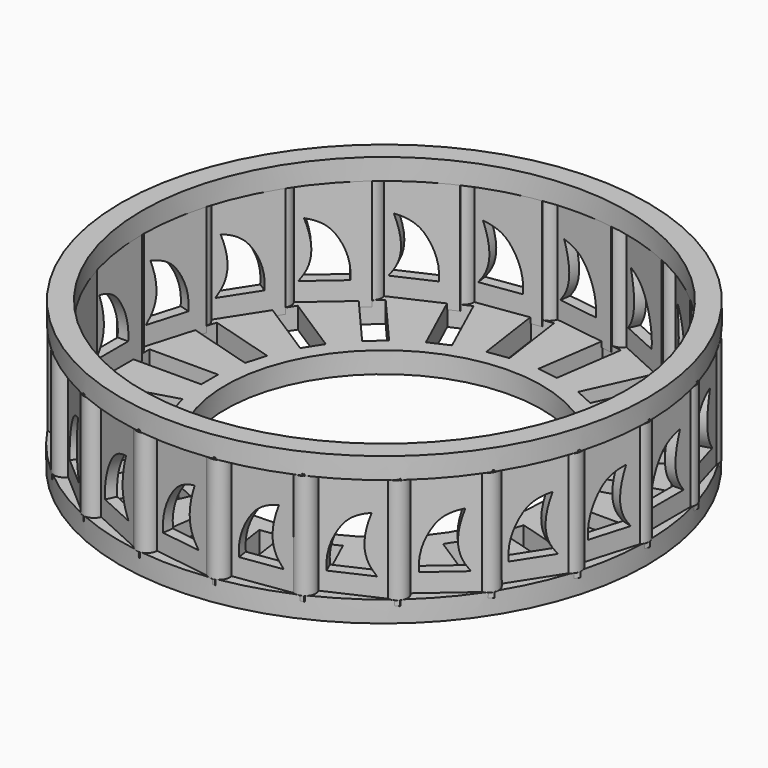
from build123d import *

# Parameters (mm, degrees)
F0_R      = 63.5
F0_W      = 16.51
F0_H      = 5.08
F0_R_2    = 38.1
F1_DEPTH  = 5.08
F2_R      = 2.54
F3_DEPTH  = 25.4
F4_R      = 63.5
F4_R_2    = 58.42
F5_DEPTH  = 5.08
F7_W      = 18.3629672974
F7_H      = 27.073842939
F8_DEPTH  = 2.54
F10_COUNT = 22


with BuildPart() as f1:
    # F0 (on Top) → F1 (new body)
    with BuildSketch(Plane.XY):
        with Locations((-0.1923876274, 0)):
            Circle(F0_R)
        Polygon((-40.3025550988, -42.632940737), (-29.4908043814, -30.1555152645), (-25.6515965436, -33.4822077929), (-36.4633472611, -45.9596332655), align=None, mode=Mode.SUBTRACT)
        Polygon((-10.8555589284, -57.6543183442), (-8.5059409485, -41.3123663387), (-3.4776480237, -42.0353257172), (-5.8272660036, -58.3772777226), align=None, mode=Mode.SUBTRACT)
        Polygon((-26.6589310365, -52.2605489769), (-19.8004291718, -37.2425247336), (-15.1794986354, -39.3528329997), (-22.0380005001, -54.370857243), align=None, mode=Mode.SUBTRACT)
        Polygon((-50.6811058355, -29.5514651865), (-36.7920100085, -20.6254852903), (-34.0455546558, -24.8990532371), (-47.9346504829, -33.8250331333), align=None, mode=Mode.SUBTRACT)
        Polygon((-56.9537747896, -14.0759056759), (-41.1125457952, -9.4245011624), (-39.6813444065, -14.2987254684), (-55.5225734008, -18.9501299818), align=None, mode=Mode.SUBTRACT)
        Polygon((5.8272660036, -58.3772777226), (3.4776480237, -42.0353257172), (8.5059409485, -41.3123663387), (10.8555589284, -57.6543183442), align=None, mode=Mode.SUBTRACT)
        Polygon((22.0380005001, -54.370857243), (15.1794986354, -39.3528329997), (19.8004291718, -37.2425247336), (26.6589310365, -52.2605489769), align=None, mode=Mode.SUBTRACT)
        Polygon((36.4633472611, -45.9596332655), (25.6515965436, -33.4822077929), (29.4908043814, -30.1555152645), (40.3025550988, -42.632940737), align=None, mode=Mode.SUBTRACT)
        Polygon((47.9346504829, -33.8250331333), (34.0455546558, -24.8990532371), (36.7920100085, -20.6254852903), (50.6811058355, -29.5514651865), align=None, mode=Mode.SUBTRACT)
        Polygon((55.5225734008, -18.9501299818), (39.6813444065, -14.2987254684), (41.1125457952, -9.4245011624), (56.9537747896, -14.0759056759), align=None, mode=Mode.SUBTRACT)
        with Locations((-50.3573876274, 0)):
            Rectangle(F0_W, F0_H, mode=Mode.SUBTRACT)
        Polygon((-55.5225734008, 18.9501299818), (-39.6813444065, 14.2987254684), (-41.1125457952, 9.4245011624), (-56.9537747896, 14.0759056759), align=None, mode=Mode.SUBTRACT)
        Polygon((-47.9346504829, 33.8250331333), (-34.0455546558, 24.8990532371), (-36.7920100085, 20.6254852903), (-50.6811058355, 29.5514651865), align=None, mode=Mode.SUBTRACT)
        Polygon((-36.4633472611, 45.9596332655), (-25.6515965436, 33.4822077929), (-29.4908043814, 30.1555152645), (-40.3025550988, 42.632940737), align=None, mode=Mode.SUBTRACT)
        Polygon((-22.0380005001, 54.370857243), (-15.1794986354, 39.3528329997), (-19.8004291718, 37.2425247336), (-26.6589310365, 52.2605489769), align=None, mode=Mode.SUBTRACT)
        Polygon((-5.8272660036, 58.3772777226), (-3.4776480237, 42.0353257172), (-8.5059409485, 41.3123663387), (-10.8555589284, 57.6543183442), align=None, mode=Mode.SUBTRACT)
        with Locations((-0.1923876274, 0)):
            Circle(F0_R_2, mode=Mode.SUBTRACT)
        with Locations((50.3573876274, 0)):
            Rectangle(F0_W, F0_H, mode=Mode.SUBTRACT)
        Polygon((56.9537747896, 14.0759056759), (41.1125457952, 9.4245011624), (39.6813444065, 14.2987254684), (55.5225734008, 18.9501299818), align=None, mode=Mode.SUBTRACT)
        Polygon((50.6811058355, 29.5514651865), (36.7920100085, 20.6254852903), (34.0455546558, 24.8990532371), (47.9346504829, 33.8250331333), align=None, mode=Mode.SUBTRACT)
        Polygon((26.6589310365, 52.2605489769), (19.8004291718, 37.2425247336), (15.1794986354, 39.3528329997), (22.0380005001, 54.370857243), align=None, mode=Mode.SUBTRACT)
        Polygon((10.8555589284, 57.6543183442), (8.5059409485, 41.3123663387), (3.4776480237, 42.0353257172), (5.8272660036, 58.3772777226), align=None, mode=Mode.SUBTRACT)
        Polygon((40.3025550988, 42.632940737), (29.4908043814, 30.1555152645), (25.6515965436, 33.4822077929), (36.4633472611, 45.9596332655), align=None, mode=Mode.SUBTRACT)
    extrude(amount=F1_DEPTH)

    # F2 (on face) → F3 (join)
    with BuildSketch(Plane.XY.offset(5.08)):
        with Locations((-61.2179338932, 0)):
            Circle(F2_R)
        with Locations((-58.7381774297, -17.2470850403)):
            Circle(F2_R)
        with Locations((-51.4998031603, -33.096913823)):
            Circle(F2_R)
        with Locations((-40.0892211199, -46.2654274826)):
            Circle(F2_R)
        with Locations((-25.4308488042, -55.6857913588)):
            Circle(F2_R)
        with Locations((-8.7122203614, -60.5948235951)):
            Circle(F2_R)
        with Locations((8.7122203614, -60.5948235951)):
            Circle(F2_R)
        with Locations((25.4308488042, -55.6857913588)):
            Circle(F2_R)
        with Locations((40.0892211199, -46.2654274826)):
            Circle(F2_R)
        with Locations((51.4998031603, -33.096913823)):
            Circle(F2_R)
        with Locations((58.7381774297, -17.2470850403)):
            Circle(F2_R)
        with Locations((61.2179338932, 0)):
            Circle(F2_R)
        with Locations((58.7381774297, 17.2470850403)):
            Circle(F2_R)
        with Locations((51.4998031603, 33.096913823)):
            Circle(F2_R)
        with Locations((40.0892211199, 46.2654274826)):
            Circle(F2_R)
        with Locations((25.4308488042, 55.6857913588)):
            Circle(F2_R)
        with Locations((8.7122203614, 60.5948235951)):
            Circle(F2_R)
        with Locations((-8.7122203614, 60.5948235951)):
            Circle(F2_R)
        with Locations((-25.4308488042, 55.6857913588)):
            Circle(F2_R)
        with Locations((-40.0892211199, 46.2654274826)):
            Circle(F2_R)
        with Locations((-51.4998031603, 33.096913823)):
            Circle(F2_R)
        with Locations((-58.7381774297, 17.2470850403)):
            Circle(F2_R)
    extrude(amount=F3_DEPTH)

    # F4 (on face) → F5 (join)
    with BuildSketch(Plane.XY.offset(30.48)):
        Circle(F4_R)
        Circle(F4_R_2, mode=Mode.SUBTRACT)
    extrude(amount=F5_DEPTH)


with BuildPart() as f8:
    # F7 (on offset) → F8 (new body)
    with BuildSketch(Plane.YZ.offset(60.96)):
        with Locations((9.1814836487, 17.3004337121)):
            Rectangle(F7_W, F7_H)
        with BuildLine():
            Line((13.8985989615, 9.5373890363), (4.1229403578, 9.5373890363))
            add(Edge.make_bspline(
                [(4.1229403578, 9.5373890363), (3.8238647014, 13.1758421241), (5.8538104402, 18.8352404359), (9.0935152673, 22.1515593226), (12.8517234698, 22.8784270585)],
                knots=[0, 0, 0, 0, 0.5164655318, 1, 1, 1, 1], degree=3))
            add(Edge.make_bspline(
                [(13.8985989615, 9.5373890363), (12.9132093862, 10.8256936073), (11.4145085167, 13.1844213852), (11.0661834478, 17.931336537), (12.8517234698, 22.8784270585)],
                knots=[0, 0, 0, 0, 0.388745875, 1, 1, 1, 1], degree=3))
        make_face(mode=Mode.SUBTRACT)
    extrude(amount=-F8_DEPTH)


with BuildPart() as f10_1:
    # F10: instance of F8
    add(f8.part.rotate(Axis((0, 0, 31.877823174), (0, 0, -1)), 1 * 360 / F10_COUNT))


with BuildPart() as f10_2:
    # F10: instance of F8
    add(f8.part.rotate(Axis((0, 0, 31.877823174), (0, 0, -1)), 2 * 360 / F10_COUNT))


with BuildPart() as f10_3:
    # F10: instance of F8
    add(f8.part.rotate(Axis((0, 0, 31.877823174), (0, 0, -1)), 3 * 360 / F10_COUNT))


with BuildPart() as f10_4:
    # F10: instance of F8
    add(f8.part.rotate(Axis((0, 0, 31.877823174), (0, 0, -1)), 4 * 360 / F10_COUNT))


with BuildPart() as f10_5:
    # F10: instance of F8
    add(f8.part.rotate(Axis((0, 0, 31.877823174), (0, 0, -1)), 5 * 360 / F10_COUNT))


with BuildPart() as f10_6:
    # F10: instance of F8
    add(f8.part.rotate(Axis((0, 0, 31.877823174), (0, 0, -1)), 6 * 360 / F10_COUNT))


with BuildPart() as f10_7:
    # F10: instance of F8
    add(f8.part.rotate(Axis((0, 0, 31.877823174), (0, 0, -1)), 7 * 360 / F10_COUNT))


with BuildPart() as f10_8:
    # F10: instance of F8
    add(f8.part.rotate(Axis((0, 0, 31.877823174), (0, 0, -1)), 8 * 360 / F10_COUNT))


with BuildPart() as f10_9:
    # F10: instance of F8
    add(f8.part.rotate(Axis((0, 0, 31.877823174), (0, 0, -1)), 9 * 360 / F10_COUNT))


with BuildPart() as f10_10:
    # F10: instance of F8
    add(f8.part.rotate(Axis((0, 0, 31.877823174), (0, 0, -1)), 10 * 360 / F10_COUNT))


with BuildPart() as f10_11:
    # F10: instance of F8
    add(f8.part.rotate(Axis((0, 0, 31.877823174), (0, 0, -1)), 11 * 360 / F10_COUNT))


with BuildPart() as f10_12:
    # F10: instance of F8
    add(f8.part.rotate(Axis((0, 0, 31.877823174), (0, 0, -1)), 12 * 360 / F10_COUNT))


with BuildPart() as f10_13:
    # F10: instance of F8
    add(f8.part.rotate(Axis((0, 0, 31.877823174), (0, 0, -1)), 13 * 360 / F10_COUNT))


with BuildPart() as f10_14:
    # F10: instance of F8
    add(f8.part.rotate(Axis((0, 0, 31.877823174), (0, 0, -1)), 14 * 360 / F10_COUNT))


with BuildPart() as f10_15:
    # F10: instance of F8
    add(f8.part.rotate(Axis((0, 0, 31.877823174), (0, 0, -1)), 15 * 360 / F10_COUNT))


with BuildPart() as f10_16:
    # F10: instance of F8
    add(f8.part.rotate(Axis((0, 0, 31.877823174), (0, 0, -1)), 16 * 360 / F10_COUNT))


with BuildPart() as f10_17:
    # F10: instance of F8
    add(f8.part.rotate(Axis((0, 0, 31.877823174), (0, 0, -1)), 17 * 360 / F10_COUNT))


with BuildPart() as f10_18:
    # F10: instance of F8
    add(f8.part.rotate(Axis((0, 0, 31.877823174), (0, 0, -1)), 18 * 360 / F10_COUNT))


with BuildPart() as f10_19:
    # F10: instance of F8
    add(f8.part.rotate(Axis((0, 0, 31.877823174), (0, 0, -1)), 19 * 360 / F10_COUNT))


with BuildPart() as f10_20:
    # F10: instance of F8
    add(f8.part.rotate(Axis((0, 0, 31.877823174), (0, 0, -1)), 20 * 360 / F10_COUNT))


with BuildPart() as f10_21:
    # F10: instance of F8
    add(f8.part.rotate(Axis((0, 0, 31.877823174), (0, 0, -1)), 21 * 360 / F10_COUNT))


solid = Compound([f1.part, f8.part, f10_1.part, f10_2.part, f10_3.part, f10_4.part, f10_5.part, f10_6.part, f10_7.part, f10_8.part, f10_9.part, f10_10.part, f10_11.part, f10_12.part, f10_13.part, f10_14.part, f10_15.part, f10_16.part, f10_17.part, f10_18.part, f10_19.part, f10_20.part, f10_21.part])
